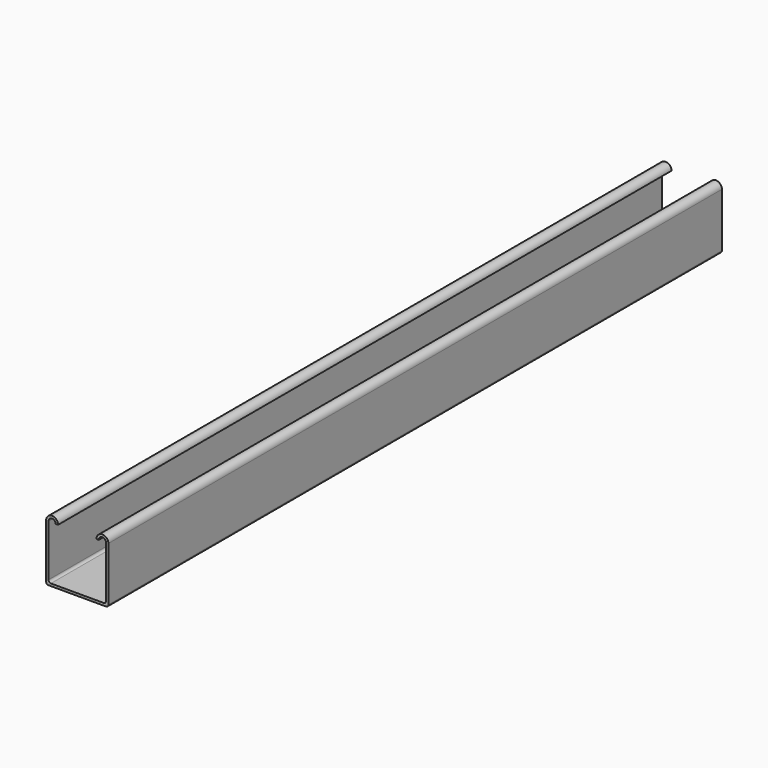
from build123d import *

# Parameters (mm, degrees)
F1_DEPTH = 254
F2_R     = 1.5875


with BuildPart() as f1:
    # F0 (on Front) → F1 (new body, symmetric)
    with BuildSketch(Plane.XZ):
        with BuildLine():
            Line((-20.6375, -20.6375), (20.6375, -20.6375))
            Line((20.6375, -20.6375), (20.6375, 16.66875))
            ThreePointArc((20.6375, 16.66875), (16.66875, 20.6375), (12.7, 16.66875))
            Line((12.7, 16.66875), (14.2875, 16.66875))
            ThreePointArc((14.2875, 16.66875), (16.66875, 19.05), (19.05, 16.66875))
            Line((19.05, 16.66875), (19.05, -19.05))
            Line((19.05, -19.05), (-19.05, -19.05))
            Line((-19.05, -19.05), (-19.05, 16.66875))
            ThreePointArc((-19.05, 16.66875), (-16.66875, 19.05), (-14.2875, 16.66875))
            Line((-14.2875, 16.66875), (-12.7, 16.66875))
            ThreePointArc((-12.7, 16.66875), (-16.66875, 20.6375), (-20.6375, 16.66875))
            Line((-20.6375, 16.66875), (-20.6375, -20.6375))
        make_face()
    extrude(amount=F1_DEPTH, both=True)

    # F2
    f2_edges = [f1.edges().sort_by_distance(p)[0] for p in [
        (-19.05, 0, -19.05),
        (19.05, 0, -19.05),
        (20.6375, 0, -20.6375),
        (-20.6375, 0, -20.6375),
    ]]
    fillet(f2_edges, radius=F2_R)


solid = f1.part
